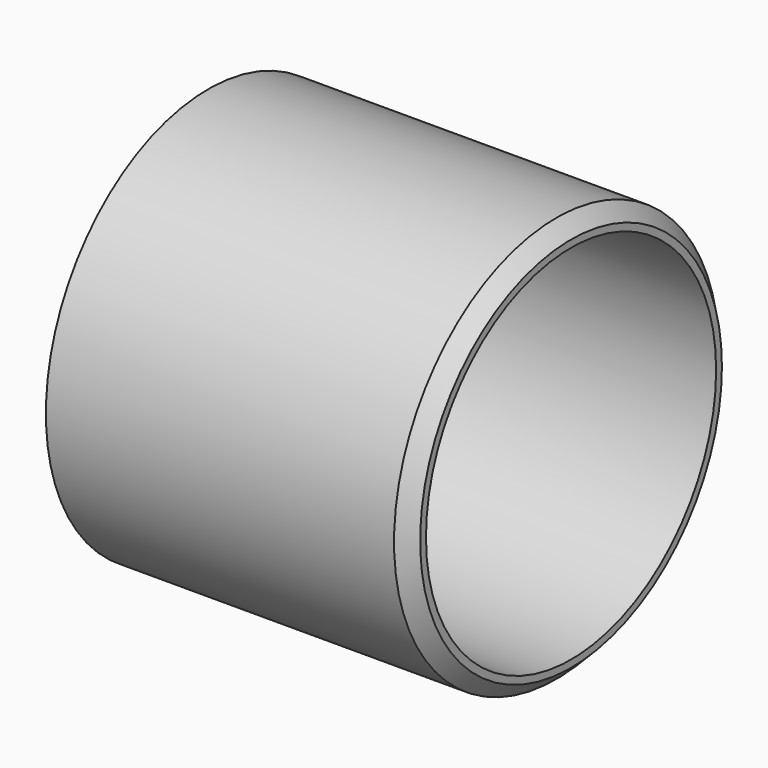
from build123d import *

# Parameters (mm, degrees)
F0_R     = 14
F0_R_2   = 12.5
F1_DEPTH = 25
F2_SIZE  = 1


with BuildPart() as f1:
    # F0 (on Right) → F1 (new body)
    with BuildSketch(Plane.YZ):
        Circle(F0_R)
        Circle(F0_R_2, mode=Mode.SUBTRACT)
    extrude(amount=F1_DEPTH)

    # F2
    f2_edges = [f1.edges().sort_by_distance(p)[0] for p in [
        (25, -14, 0),
    ]]
    chamfer(f2_edges, length=F2_SIZE)


solid = f1.part
